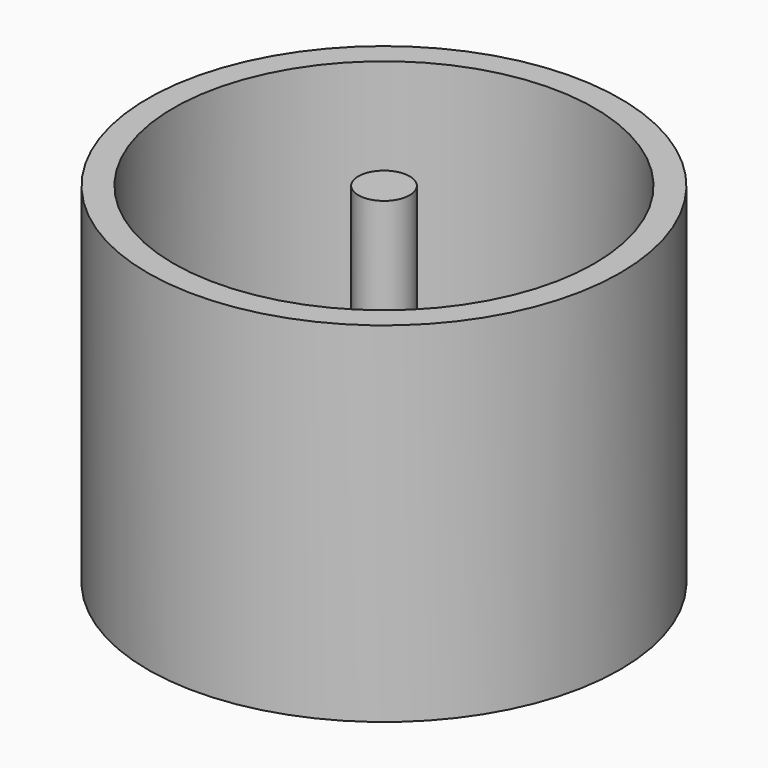
from build123d import *

# Parameters (mm, degrees)
F0_R     = 11.5
F1_DEPTH = 2
F2_R     = 11.5
F2_R_2   = 10.25
F3_DEPTH = 15
F4_R     = 1.25
F5_DEPTH = 15


with BuildPart() as f1:
    # F0 (on Top) → F1 (new body)
    with BuildSketch(Plane.XY):
        Circle(F0_R)
    extrude(amount=F1_DEPTH)

    # F2 (on face) → F3 (join)
    with BuildSketch(Plane.XY.offset(2)):
        Circle(F2_R)
        Circle(F2_R_2, mode=Mode.SUBTRACT)
    extrude(amount=F3_DEPTH)

    # F4 (on face) → F5 (join)
    with BuildSketch(Plane.XY.offset(2)):
        Circle(F4_R)
    extrude(amount=F5_DEPTH)


solid = f1.part
